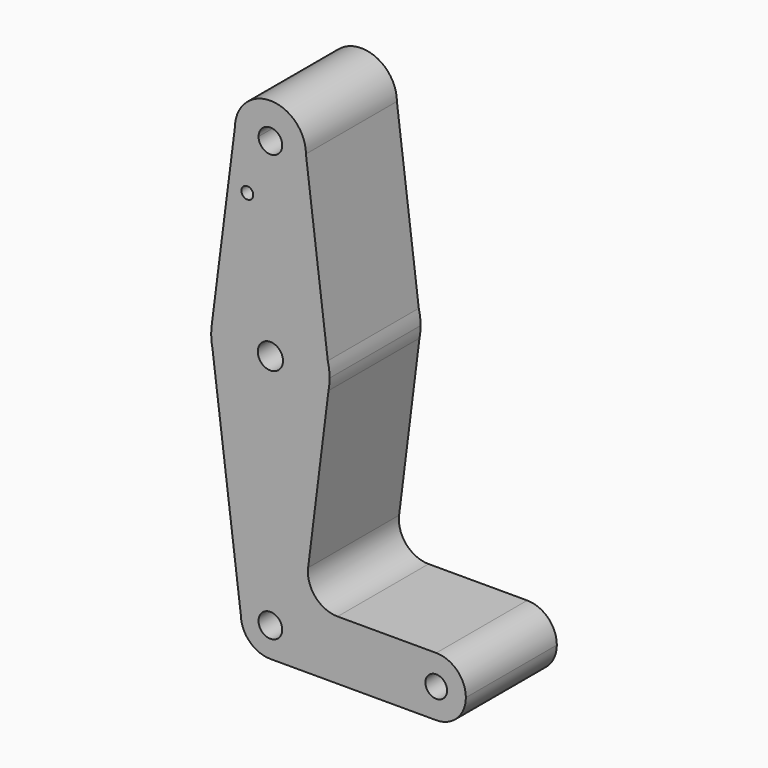
from build123d import *

# Parameters (mm, degrees)
F0_R     = 3.3798618289
F0_R_2   = 1.5875
F1_DEPTH = 30.48


with BuildPart() as f1:
    # F0 (on Front) → F1 (new body)
    with BuildSketch(Plane.XZ):
        with BuildLine():
            ThreePointArc((-3.1763056217, 0), (0, 3.1763056217), (3.1763056217, 0))
            Line((3.1763056217, 0), (7.9375, 0))
            ThreePointArc((7.9375, 0), (0, 7.9375), (-7.9375, 0))
            Line((-7.9375, 0), (-3.1763056217, 0))
        make_face()
        with BuildLine():
            Line((7.9375, 0), (3.1763056217, 0))
            ThreePointArc((3.1763056217, 0), (0, -3.1763056217), (-3.1763056217, 0))
            Line((-3.1763056217, 0), (-7.9375, 0))
            ThreePointArc((-7.9375, 0), (-5.6126600757, -5.6126600757), (0, -7.9375))
            ThreePointArc((0, -7.9375), (5.6126600757, -5.6126600757), (7.9375, 0))
        make_face()
        with BuildLine():
            ThreePointArc((-7.9375, 0), (0, 7.9375), (7.9375, 0))
            Line((7.9375, 0), (36.5125, 0))
            ThreePointArc((36.5125, 0), (38.8373399243, 5.6126600757), (44.45, 7.9375))
            Line((44.45, 7.9375), (18.003602441, 7.9375))
            ThreePointArc((18.003602441, 7.9375), (12.0425977283, 10.6272719893), (10.1151377075, 16.876539819))
            Line((10.1151377075, 16.876539819), (15.5735553324, 60.4210392487))
            ThreePointArc((15.5735553324, 60.4210392487), (0.1766226081, 47.6259825673), (-15.5011920437, 60.0752853808))
            Line((-15.5011920437, 60.0752853808), (-7.9375, 0))
        make_face()
        with BuildLine():
            Line((36.5125, 0), (7.9375, 0))
            ThreePointArc((7.9375, 0), (5.6126600757, -5.6126600757), (0, -7.9375))
            Line((0, -7.9375), (44.45, -7.9375))
            ThreePointArc((44.45, -7.9375), (38.8373399243, -5.6126600757), (36.5125, 0))
        make_face()
        with BuildLine():
            ThreePointArc((44.45, 7.9375), (38.8373399243, 5.6126600757), (36.5125, 0))
            ThreePointArc((36.5125, 0), (38.8373399243, -5.6126600757), (44.45, -7.9375))
            ThreePointArc((44.45, -7.9375), (50.0626600757, -5.6126600757), (52.3875, 0))
            ThreePointArc((52.3875, 0), (50.0626600757, 5.6126600757), (44.45, 7.9375))
        make_face()
        with BuildLine():
            ThreePointArc((47.3488403966, 0), (44.45, -2.8988403966), (41.5511596034, 0))
            ThreePointArc((41.5511596034, 0), (44.45, 2.8988403966), (47.3488403966, 0))
        make_face(mode=Mode.SUBTRACT)
        with BuildLine():
            ThreePointArc((-15.7474550599, 65.5083037958), (-15.8587171211, 62.7811702055), (-15.5011920437, 60.0752853808))
            ThreePointArc((-15.5011920437, 60.0752853808), (0.1766226081, 47.6259825673), (15.5735553324, 60.4210392487))
            ThreePointArc((15.5735553324, 60.4210392487), (15.7994591031, 61.9531590098), (15.875, 63.5))
            Line((15.875, 63.5), (15.3865317539, 67.407718719))
            ThreePointArc((15.3865317539, 67.407718719), (-0.9667009211, 79.3455392565), (-15.7474550599, 65.5083037958))
        make_face()
        with Locations((0, 63.5)):
            Circle(F0_R, mode=Mode.SUBTRACT)
        with BuildLine():
            Line((-9.5249557191, 114.3), (-15.7474550599, 65.5083037958))
            ThreePointArc((-15.7474550599, 65.5083037958), (-0.9667009211, 79.3455392565), (15.3865317539, 67.407718719))
            Line((15.3865317539, 67.407718719), (9.5249557191, 114.3))
            ThreePointArc((9.5249557191, 114.3), (9.5249889298, 114.2854780636), (9.525, 114.2709560934))
            ThreePointArc((9.525, 114.2709560934), (-0.0145219702, 104.7459671636), (-9.5249557191, 114.3))
        make_face()
        with Locations((-6.1838091351, 100.0252)):
            Circle(F0_R_2, mode=Mode.SUBTRACT)
        with BuildLine():
            Line((15.3865317539, 67.407718719), (15.875, 63.5))
            ThreePointArc((15.875, 63.5), (15.7524096029, 65.4690649313), (15.3865317539, 67.407718719))
        make_face()
        with BuildLine():
            ThreePointArc((9.5249557191, 114.3), (0, 123.7959560934), (-9.5249557191, 114.3))
            ThreePointArc((-9.5249557191, 114.3), (-0.0145219702, 104.7459671636), (9.525, 114.2709560934))
            ThreePointArc((9.525, 114.2709560934), (9.5249889298, 114.2854780636), (9.5249557191, 114.3))
        make_face()
        with BuildLine():
            ThreePointArc((3.175, 114.2709560934), (-0.0048406567, 111.0959597835), (-3.1749852397, 114.2806373956))
            ThreePointArc((-3.1749852397, 114.2806373956), (0.0048406567, 117.4459524033), (3.175, 114.2709560934))
        make_face(mode=Mode.SUBTRACT)
    extrude(amount=-F1_DEPTH)


solid = f1.part
